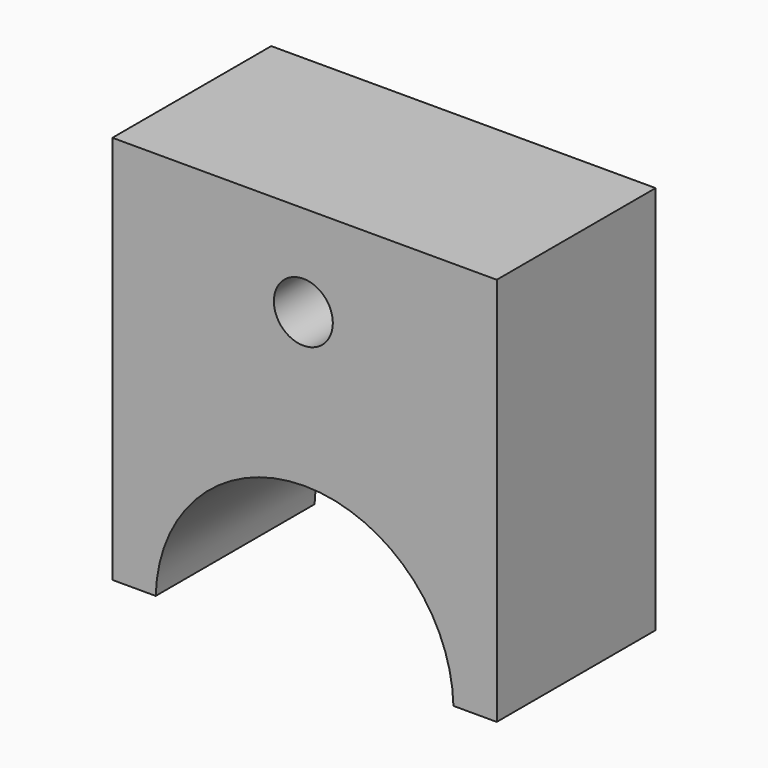
from build123d import *

# Parameters (mm, degrees)
PAD_DEPTH    = 20
SKETCH001_R  = 2.969433
POCKET_DEPTH = 20.001


with BuildPart() as part:
    # Sketch → Pad (new body)
    with BuildSketch(Plane.XZ):
        with BuildLine():
            ThreePointArc((14.995451, 1e-06), (0, 14.630607), (-14.995451, 1e-06))
            Line((-14.995451, 1e-06), (-19.357943, 1e-06))
            Line((-19.357943, 1e-06), (-19.357943, 39.209084))
            Line((-19.357943, 39.209084), (19.357943, 39.209084))
            Line((19.357943, 39.209084), (19.357943, 1e-06))
            Line((14.995451, 1e-06), (19.357943, 1e-06))
        make_face()
    extrude(amount=PAD_DEPTH)

    # Sketch001 → Pocket (cut, through all)
    with BuildSketch(Plane.XZ.offset(20)):
        with Locations((-0.123295, 30)):
            Circle(SKETCH001_R)
    extrude(amount=-POCKET_DEPTH, mode=Mode.SUBTRACT)


solid = part.part
